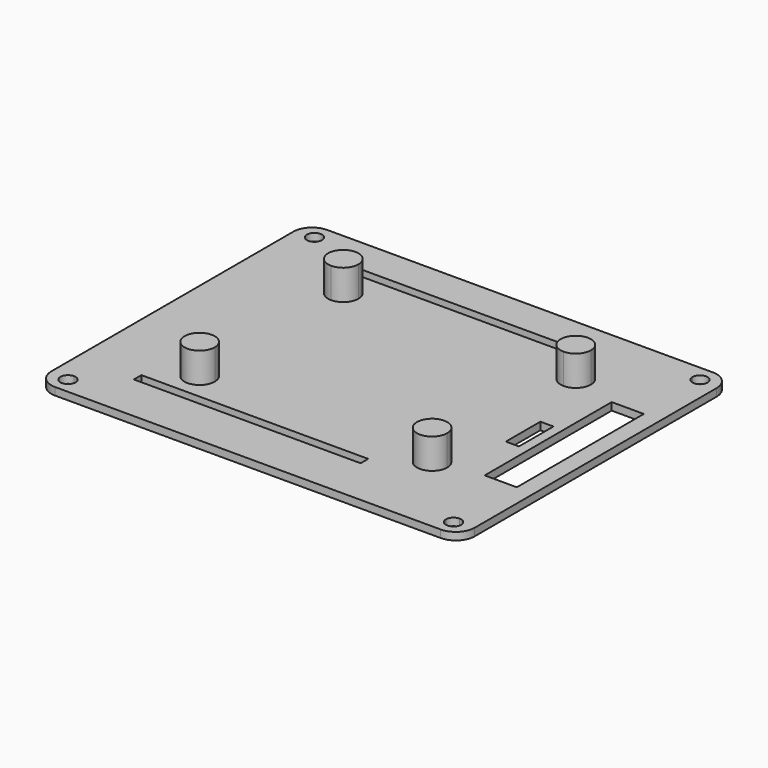
from build123d import *

# Parameters (mm, degrees)
F1_DEPTH  = 2
F2_W      = 8.5
F2_H      = 42
F3_DEPTH  = 25
F4_W      = 8.018283
F4_H      = 42
F5_DEPTH  = 25
F6_W      = 60
F6_H      = 2.5
F7_DEPTH  = 25
F9_DEPTH  = 8
F10_W     = 3.459897
F10_H     = 11.410049
F11_DEPTH = 25


with BuildPart() as f1:
    # F0 (on Top) → F1 (new body)
    with BuildSketch(Plane.XY):
        with BuildLine():
            ThreePointArc((56, 40), (54.535534, 43.535534), (51, 45))
            Line((51, 45), (-51, 45))
            ThreePointArc((-51, 45), (-54.535534, 43.535534), (-56, 40))
            Line((-56, 40), (-56, -40))
            ThreePointArc((-56, -40), (-54.535534, -43.535534), (-51, -45))
            Line((-51, -45), (51, -45))
            ThreePointArc((51, -45), (54.535534, -43.535534), (56, -40))
            Line((56, -40), (56, 40))
        make_face()
    extrude(amount=F1_DEPTH)

    # F2 (on face) → F3 (cut)
    with BuildSketch(Plane.XY.offset(2)):
        with Locations((47.231717, 0.56968)):
            Rectangle(F2_W, F2_H)
    extrude(amount=-F3_DEPTH, mode=Mode.SUBTRACT)

    # F4 (on face) → F5 (cut)
    with BuildSketch(Plane.XY.offset(2)):
        with Locations((46.990859, 0.56968)):
            Rectangle(F4_W, F4_H)
        with BuildLine():
            Line((51, 40.75), (49, 40.75))
            ThreePointArc((49, 40.75), (49.585786, 39.335786), (51, 38.75))
            Line((51, 38.75), (51, 40.75))
        make_face()
        with BuildLine():
            ThreePointArc((53, 40.75), (51, 42.75), (49, 40.75))
            Line((49, 40.75), (51, 40.75))
            Line((51, 40.75), (51, 38.75))
            ThreePointArc((51, 38.75), (52.414214, 39.335786), (53, 40.75))
        make_face()
        with BuildLine():
            Line((-51, 40.75), (-49, 40.75))
            ThreePointArc((-49, 40.75), (-52.414214, 42.164214), (-51, 38.75))
            Line((-51, 38.75), (-51, 40.75))
        make_face()
        with BuildLine():
            ThreePointArc((-51, 38.75), (-49.585786, 39.335786), (-49, 40.75))
            Line((-49, 40.75), (-51, 40.75))
            Line((-51, 40.75), (-51, 38.75))
        make_face()
        with BuildLine():
            ThreePointArc((51, -38.75), (49.585786, -39.335786), (49, -40.75))
            Line((49, -40.75), (51, -40.75))
            Line((51, -40.75), (51, -38.75))
        make_face()
        with BuildLine():
            Line((51, -40.75), (49, -40.75))
            ThreePointArc((49, -40.75), (51, -42.75), (53, -40.75))
            ThreePointArc((53, -40.75), (52.414214, -39.335786), (51, -38.75))
            Line((51, -38.75), (51, -40.75))
        make_face()
        with BuildLine():
            ThreePointArc((-49, -40.75), (-49.585786, -39.335786), (-51, -38.75))
            Line((-51, -38.75), (-51, -40.75))
            Line((-51, -40.75), (-49, -40.75))
        make_face()
        with BuildLine():
            Line((-51, -40.75), (-51, -38.75))
            ThreePointArc((-51, -38.75), (-52.414214, -42.164214), (-49, -40.75))
            Line((-49, -40.75), (-51, -40.75))
        make_face()
    extrude(amount=-F5_DEPTH, mode=Mode.SUBTRACT)

    # F6 (on face) → F7 (cut)
    with BuildSketch(Plane.XY.offset(2)):
        with Locations((-10.423255, 34.331246)):
            Rectangle(F6_W, F6_H)
        with Locations((-10.423255, -30.946578)):
            Rectangle(F6_W, F6_H)
    extrude(amount=-F7_DEPTH, mode=Mode.SUBTRACT)

    # F8 (on face) → F9 (join)
    with BuildSketch(Plane.XY.offset(2)):
        with BuildLine():
            Line((-30.75, -18.528093), (-30.75, -22.528093))
            Line((-30.75, -22.528093), (-26.75, -22.528093))
            ThreePointArc((-26.75, -22.528093), (-27.921573, -19.699666), (-30.75, -18.528093))
        make_face()
        with BuildLine():
            Line((-26.75, -22.528093), (-30.75, -22.528093))
            Line((-30.75, -22.528093), (-30.75, -18.528093))
            ThreePointArc((-30.75, -18.528093), (-33.578427, -25.35652), (-26.75, -22.528093))
        make_face()
        with BuildLine():
            ThreePointArc((30.75, -18.528093), (27.921573, -19.699666), (26.75, -22.528093))
            Line((26.75, -22.528093), (30.75, -22.528093))
            Line((30.75, -22.528093), (30.75, -18.528093))
        make_face()
        with BuildLine():
            Line((30.75, -22.528093), (26.75, -22.528093))
            ThreePointArc((26.75, -22.528093), (30.75, -26.528093), (34.75, -22.528093))
            ThreePointArc((34.75, -22.528093), (33.578427, -19.699666), (30.75, -18.528093))
            Line((30.75, -18.528093), (30.75, -22.528093))
        make_face()
        with BuildLine():
            ThreePointArc((-26.75, 24.971907), (-33.578427, 27.800334), (-30.75, 20.971907))
            Line((-30.75, 20.971907), (-30.75, 24.971907))
            Line((-30.75, 24.971907), (-26.75, 24.971907))
        make_face()
        with BuildLine():
            Line((-30.75, 24.971907), (-30.75, 20.971907))
            ThreePointArc((-30.75, 20.971907), (-27.921573, 22.14348), (-26.75, 24.971907))
            Line((-26.75, 24.971907), (-30.75, 24.971907))
        make_face()
        with BuildLine():
            ThreePointArc((26.75, 24.971907), (27.921573, 22.14348), (30.75, 20.971907))
            Line((30.75, 20.971907), (30.75, 24.971907))
            Line((30.75, 24.971907), (26.75, 24.971907))
        make_face()
        with BuildLine():
            Line((30.75, 24.971907), (30.75, 20.971907))
            ThreePointArc((30.75, 20.971907), (33.578427, 22.14348), (34.75, 24.971907))
            ThreePointArc((34.75, 24.971907), (30.75, 28.971907), (26.75, 24.971907))
            Line((26.75, 24.971907), (30.75, 24.971907))
        make_face()
    extrude(amount=F9_DEPTH)

    # F10 (on face) → F11 (cut)
    with BuildSketch(Plane.XY.offset(2)):
        with Locations((38.681185, -0.187257)):
            Rectangle(F10_W, F10_H)
    extrude(amount=-F11_DEPTH, mode=Mode.SUBTRACT)


solid = f1.part
